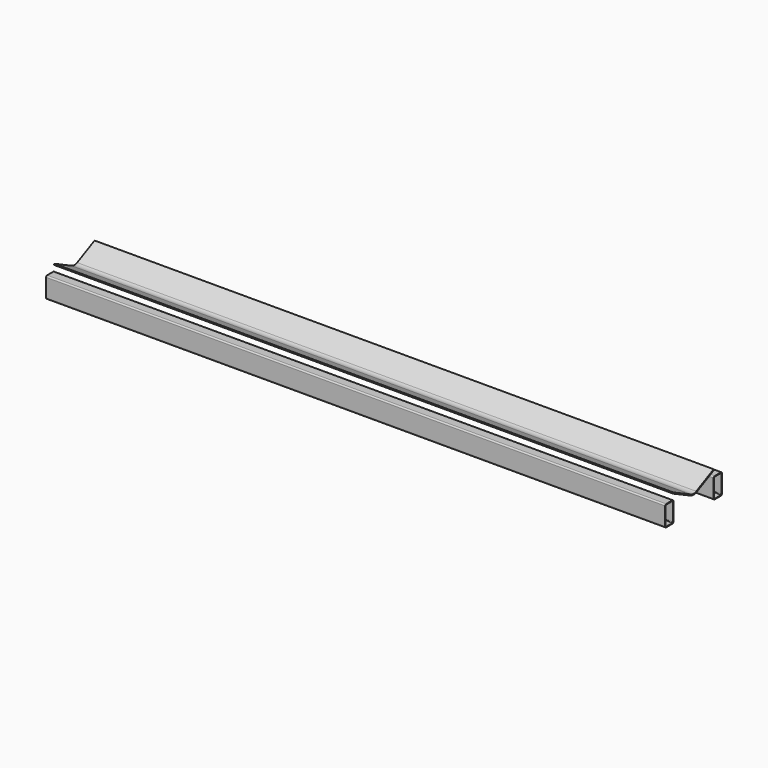
from build123d import *

# Parameters (mm, degrees)
F1_DEPTH = 6096


with BuildPart() as f1:
    # F0 (on Right) → F1 (new body)
    with BuildSketch(Plane.YZ):
        with BuildLine():
            Line((-260.35, 57.15), (-336.55, 57.15))
            ThreePointArc((-336.55, 57.15), (-345.530256, 53.430256), (-349.25, 44.45))
            Line((-349.25, 44.45), (-349.25, -133.35))
            ThreePointArc((-349.25, -133.35), (-345.530256, -142.330256), (-336.55, -146.05))
            Line((-336.55, -146.05), (-260.35, -146.05))
            ThreePointArc((-260.35, -146.05), (-251.369744, -142.330256), (-247.65, -133.35))
            Line((-247.65, -133.35), (-247.65, 44.45))
            ThreePointArc((-247.65, 44.45), (-251.369744, 53.430256), (-260.35, 57.15))
        make_face()
        with BuildLine():
            ThreePointArc((-342.9, 44.45), (-341.040128, 48.940128), (-336.55, 50.8))
            Line((-336.55, 50.8), (-260.35, 50.8))
            ThreePointArc((-260.35, 50.8), (-255.859872, 48.940128), (-254, 44.45))
            Line((-254, 44.45), (-254, -133.35))
            ThreePointArc((-254, -133.35), (-255.859872, -137.840128), (-260.35, -139.7))
            Line((-260.35, -139.7), (-336.55, -139.7))
            ThreePointArc((-336.55, -139.7), (-341.040128, -137.840128), (-342.9, -133.35))
            Line((-342.9, -133.35), (-342.9, 44.45))
        make_face(mode=Mode.SUBTRACT)
        with BuildLine():
            ThreePointArc((260.35, 57.15), (251.369744, 53.430256), (247.65, 44.45))
            Line((247.65, 44.45), (247.65, -133.35))
            ThreePointArc((247.65, -133.35), (251.369744, -142.330256), (260.35, -146.05))
            Line((260.35, -146.05), (336.55, -146.05))
            ThreePointArc((336.55, -146.05), (345.530256, -142.330256), (349.25, -133.35))
            Line((349.25, -133.35), (349.25, 44.45))
            ThreePointArc((349.25, 44.45), (345.530256, 53.430256), (336.55, 57.15))
            Line((336.55, 57.15), (260.35, 57.15))
        make_face()
        with BuildLine():
            Line((260.35, 50.8), (336.55, 50.8))
            ThreePointArc((336.55, 50.8), (341.040128, 48.940128), (342.9, 44.45))
            Line((342.9, 44.45), (342.9, -133.35))
            ThreePointArc((342.9, -133.35), (341.040128, -137.840128), (336.55, -139.7))
            Line((336.55, -139.7), (260.35, -139.7))
            ThreePointArc((260.35, -139.7), (255.859872, -137.840128), (254, -133.35))
            Line((254, -133.35), (254, 44.45))
            ThreePointArc((254, 44.45), (255.859872, 48.940128), (260.35, 50.8))
        make_face(mode=Mode.SUBTRACT)
        with BuildLine():
            Line((-33.37327, 16.258773), (-247.65, 120.65))
            Line((-247.65, 120.65), (-251.782735, 112.068159))
            Line((-251.782735, 112.068159), (-37.544929, 7.695894))
            ThreePointArc((-37.544929, 7.695894), (0, -0.963199), (37.544929, 7.695894))
            Line((37.544929, 7.695894), (251.819079, 112.085865))
            Line((251.819079, 112.085865), (247.65, 120.65))
            Line((247.65, 120.65), (33.37327, 16.258773))
            ThreePointArc((33.37327, 16.258773), (0, 8.561801), (-33.37327, 16.258773))
        make_face()
    extrude(amount=F1_DEPTH)


solid = f1.part
